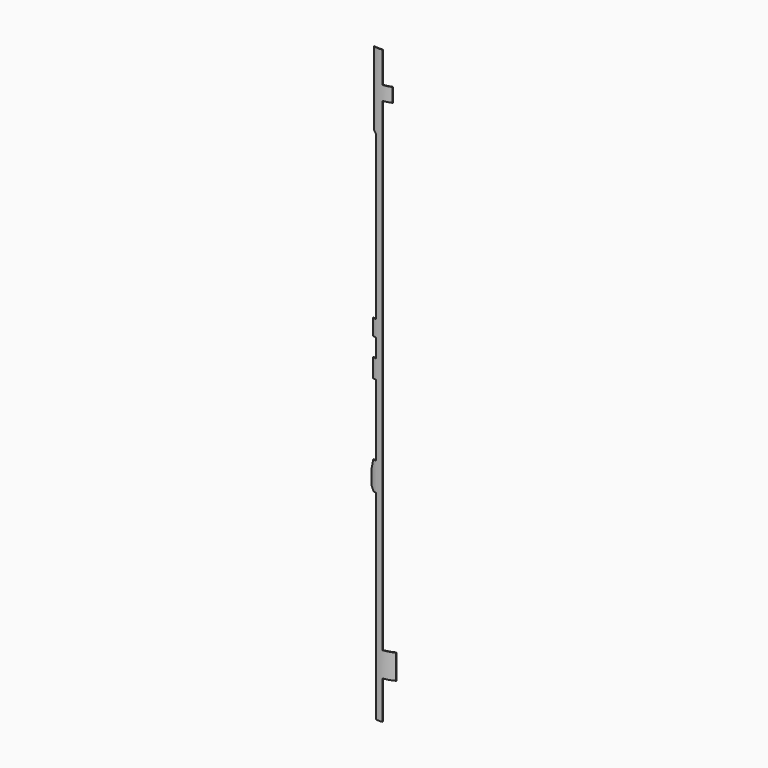
from build123d import *

# Parameters (mm, degrees)
F1_DEPTH = 1270
F2_W     = 1980.1401495934
F2_H     = 3113.6045455933
F3_DEPTH = 299.72


with BuildPart() as f1:
    # F0 (on Top) → F1 (new body, symmetric)
    with BuildSketch(Plane.XY):
        with BuildLine():
            Line((0, -0.7886457275), (0, 0))
            Line((0, 0), (0, 0.6140342441))
            ThreePointArc((0, 0.6140342441), (-18.3170854752, 2.8483369264), (-35.56, 9.4202185041))
            Line((-35.56, 9.4202185041), (-38.1, 9.4202185041))
            ThreePointArc((-38.1, 9.4202185041), (-19.7220112368, 1.8078063092), (0, -0.7886457275))
        make_face()
        with BuildLine():
            Line((0, 0.6140342441), (0, 0))
            Line((0, 0), (0, -0.7886457275))
            ThreePointArc((0, -0.7886457275), (19.7220112368, 1.8078063092), (38.1, 9.4202185041))
            Line((38.1, 9.4202185041), (35.56, 9.4202185041))
            ThreePointArc((35.56, 9.4202185041), (18.3170854752, 2.8483369264), (0, 0.6140342441))
        make_face()
    extrude(amount=F1_DEPTH, both=True)

    # F2 (on Front) → F3 (cut, symmetric)
    with BuildSketch(Plane.XZ):
        with Locations((53.6327660084, 57.6152801514)):
            Rectangle(F2_W, F2_H)
        Polygon((8.1096385542, -557.076325627), (8.1096385542, -654.3815261044), (-8.1096385542, -654.3815261044), (-8.1096385542, -557.076325627), (-8.1096385542, -147.6065518649), (-14.8421686747, -147.6065518649), (-21.5153453208, -136.3835978607), (-21.5153453208, -100.1707464551), (-16.0662650602, -76.3029374071), (-8.1096385542, -76.3029374071), (-8.1096385542, 104.6603173018), (-16.1682730924, 104.6603173018), (-16.1682730924, 151.9920442094), (-8.1096385542, 151.9920442094), (-8.1096385542, 199.323771117), (-16.1682730924, 199.323771117), (-16.1682730924, 240.1269839684), (-9.659161472, 240.1269839684), (-8.1096385542, 240.1269839684), (-8.1096385542, 654.3815261044), (-14.3257157907, 661.1377126473), (-14.3257157907, 847.0746987952), (8.1096385542, 847.0746987952), (8.1096385542, 768.4265060241), (29.4803212851, 768.4265060241), (29.4803212851, 733.0297188755), (8.1096385542, 733.0297188755), (8.1096385542, 654.3815261044), (8.1096385542, -494.1373698037), (36.1618473896, -494.1373698037), (36.1618473896, -557.076325627), align=None, mode=Mode.SUBTRACT)
    extrude(amount=F3_DEPTH, both=True, mode=Mode.SUBTRACT)


solid = f1.part
